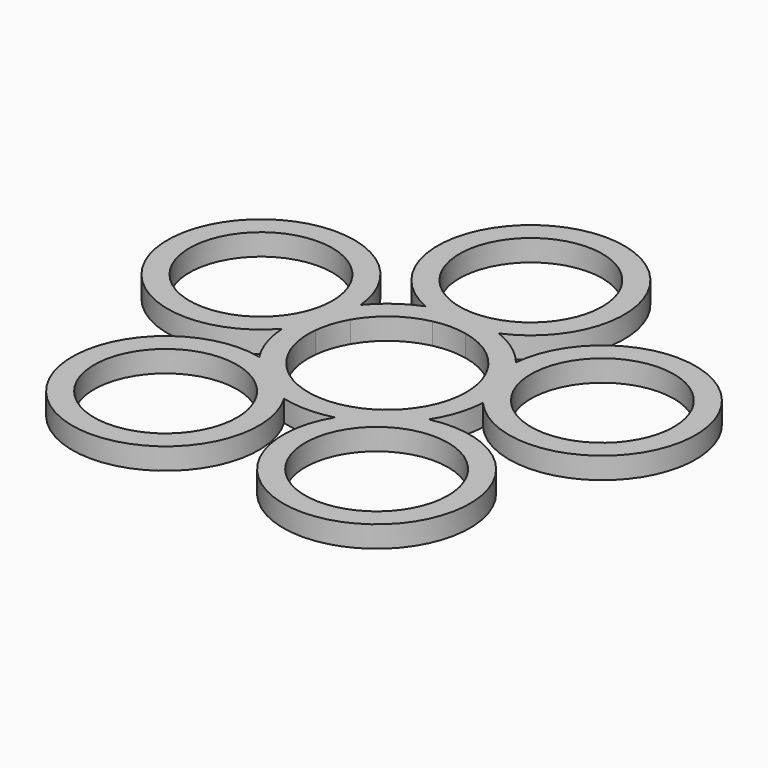
from build123d import *

# Parameters (mm, degrees)
F0_R     = 9.95
F1_DEPTH = 3


with BuildPart() as f1:
    # F0 (on Top) → F1 (new body)
    with BuildSketch(Plane.XY):
        with BuildLine():
            ThreePointArc((13.9762, -0.815993), (36.140148, 11.742646), (10.827354, 8.875156))
            ThreePointArc((10.827354, 8.875156), (8.228994, 11.326238), (5.094939, 13.04))
            ThreePointArc((5.094939, 13.04), (0, 38), (-5.094939, 13.04))
            ThreePointArc((-5.094939, 13.04), (-8.228994, 11.326238), (-10.827354, 8.875156))
            ThreePointArc((-10.827354, 8.875156), (-36.140148, 11.742646), (-13.9762, -0.815993))
            ThreePointArc((-13.9762, -0.815993), (-13.314791, -4.326238), (-11.786612, -7.554852))
            ThreePointArc((-11.786612, -7.554852), (-22.33584, -30.742646), (-3.542828, -13.544311))
            ThreePointArc((-3.542828, -13.544311), (0, -14), (3.542828, -13.544311))
            ThreePointArc((3.542828, -13.544311), (22.33584, -30.742646), (11.786612, -7.554852))
            ThreePointArc((11.786612, -7.554852), (13.314791, -4.326238), (13.9762, -0.815993))
        make_face()
        with Locations((-14.694631, -20.225425)):
            Circle(F0_R, mode=Mode.SUBTRACT)
        with BuildLine():
            ThreePointArc((2.287029, 10.759624), (6.465638, 8.899187), (9.526279, 5.5))
            ThreePointArc((9.526279, 5.5), (10.461622, 3.399187), (10.939741, 1.149813))
            ThreePointArc((10.939741, 1.149813), (10.461622, -3.399187), (8.174593, -7.360437))
            ThreePointArc((8.174593, -7.360437), (6.465638, -8.899187), (4.474103, -10.049))
            ThreePointArc((4.474103, -10.049), (0, -11), (-4.474103, -10.049))
            ThreePointArc((-4.474103, -10.049), (-6.465638, -8.899187), (-8.174593, -7.360437))
            ThreePointArc((-8.174593, -7.360437), (-10.461622, -3.399187), (-10.939741, 1.149813))
            ThreePointArc((-10.939741, 1.149813), (-10.461622, 3.399187), (-9.526279, 5.5))
            ThreePointArc((-9.526279, 5.5), (-6.465638, 8.899187), (-2.287029, 10.759624))
            ThreePointArc((-2.287029, 10.759624), (0, 11), (2.287029, 10.759624))
        make_face(mode=Mode.SUBTRACT)
        with Locations((14.694631, -20.225425)):
            Circle(F0_R, mode=Mode.SUBTRACT)
        with Locations((-23.776413, 7.725425)):
            Circle(F0_R, mode=Mode.SUBTRACT)
        with Locations((23.776413, 7.725425)):
            Circle(F0_R, mode=Mode.SUBTRACT)
        with Locations((0, 25)):
            Circle(F0_R, mode=Mode.SUBTRACT)
    extrude(amount=F1_DEPTH)


solid = f1.part
